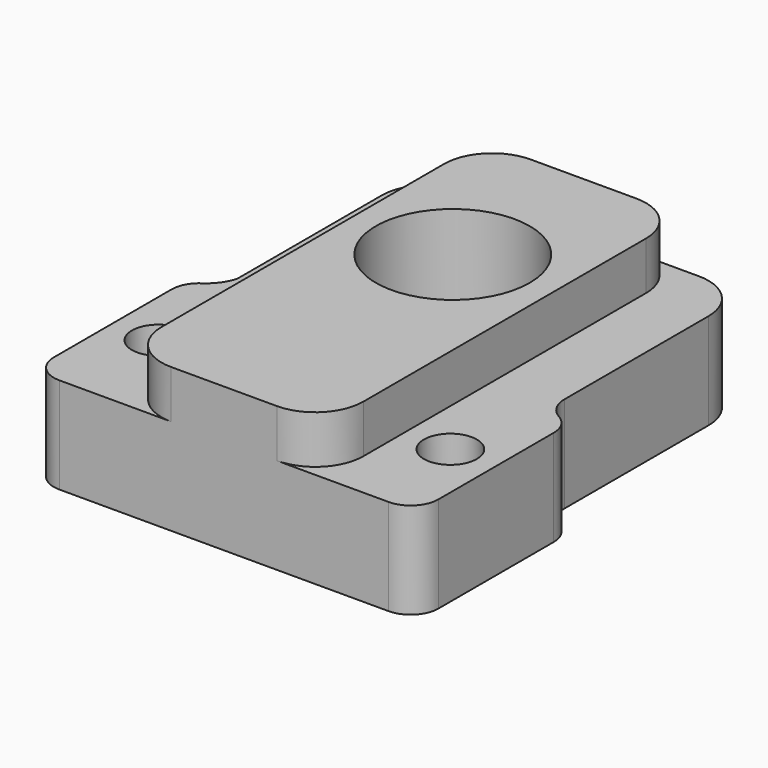
from build123d import *

# Parameters (mm, degrees)
F1_DEPTH  = 10
F3_DEPTH  = 5
F4_R      = 8
F5_DEPTH  = 25
F6_R      = 2.75
F6_R_2    = 1.5
F7_DEPTH  = 3
F8_DEPTH  = 25
F9_R      = 2.75
F9_R_2    = 1.5
F10_DEPTH = 3
F11_DEPTH = 25


with BuildPart() as f1:
    # F0 (on Top) → F1 (new body)
    with BuildSketch(Plane.XY):
        with BuildLine():
            Line((-17.1261427557, -29.75), (17.1261427557, -29.75))
            ThreePointArc((17.1261427557, -29.75), (19.1582667013, -28.9082667013), (20, -26.8761427557))
            Line((20, -26.8761427557), (20, -11.87280621))
            ThreePointArc((20, -11.87280621), (19.6060520694, -10.4205303214), (18.5322129268, -9.3664099655))
            ThreePointArc((18.5322129268, -9.3664099655), (17.4112395611, -8.2660209069), (17, -6.75))
            Line((17, -6.75), (17, 12))
            ThreePointArc((17, 12), (15.5355339059, 15.5355339059), (12, 17))
            Line((12, 17), (-12, 17))
            ThreePointArc((-12, 17), (-15.5355339059, 15.5355339059), (-17, 12))
            Line((-17, 12), (-17, -6.75))
            ThreePointArc((-17, -6.75), (-17.6456554571, -8.1178497679), (-18.730129695, -9.1722688421))
            ThreePointArc((-18.730129695, -9.1722688421), (-19.6627433299, -10.206041959), (-20, -11.5568613354))
            Line((-20, -11.5568613354), (-20, -26.8761427557))
            ThreePointArc((-20, -26.8761427557), (-19.1582667013, -28.9082667013), (-17.1261427557, -29.75))
        make_face()
    extrude(amount=F1_DEPTH)

    # F2 (on face) → F3 (join)
    with BuildSketch(Plane.XY.offset(10)):
        with BuildLine():
            Line((-10.5, 12), (-10.5, -24.75))
            ThreePointArc((-10.5, -24.75), (-9.0355339059, -28.2855339059), (-5.5, -29.75))
            Line((-5.5, -29.75), (5.5, -29.75))
            ThreePointArc((5.5, -29.75), (9.0355339059, -28.2855339059), (10.5, -24.75))
            Line((10.5, -24.75), (10.5, 12))
            ThreePointArc((10.5, 12), (9.0355339059, 15.5355339059), (5.5, 17))
            Line((5.5, 17), (-5.5, 17))
            ThreePointArc((-5.5, 17), (-9.0355339059, 15.5355339059), (-10.5, 12))
        make_face()
    extrude(amount=F3_DEPTH)

    # F4 (on face) → F5 (cut)
    with BuildSketch(Plane.XY.offset(15)):
        Circle(F4_R)
    extrude(amount=-F5_DEPTH, mode=Mode.SUBTRACT)

    # F6 (on face) → F7 (cut)
    with BuildSketch(Plane.XY.offset(10)):
        with Locations((-15.25, -19.2165020456)):
            Circle(F6_R)
        with Locations((-15.25, -19.2165020456)):
            Circle(F6_R_2, mode=Mode.SUBTRACT)
    extrude(amount=-F7_DEPTH, mode=Mode.SUBTRACT)

    # F8 (cut): a face of the model
    f8_faces = [f1.faces().sort_by_distance(p)[0] for p in [
        (-15.25, -19.2165020456, 10),
    ]]
    extrude(f8_faces, amount=-F8_DEPTH, mode=Mode.SUBTRACT)

    # F9 (on face) → F10 (cut)
    with BuildSketch(Plane.XY.offset(10)):
        with Locations((15.25, -19.3744744829)):
            Circle(F9_R)
        with Locations((15.25, -19.3744744829)):
            Circle(F9_R_2, mode=Mode.SUBTRACT)
    extrude(amount=-F10_DEPTH, mode=Mode.SUBTRACT)

    # F11 (cut): a face of the model
    f11_faces = [f1.faces().sort_by_distance(p)[0] for p in [
        (15.25, -19.3744744829, 10),
    ]]
    extrude(f11_faces, amount=-F11_DEPTH, mode=Mode.SUBTRACT)


solid = f1.part
